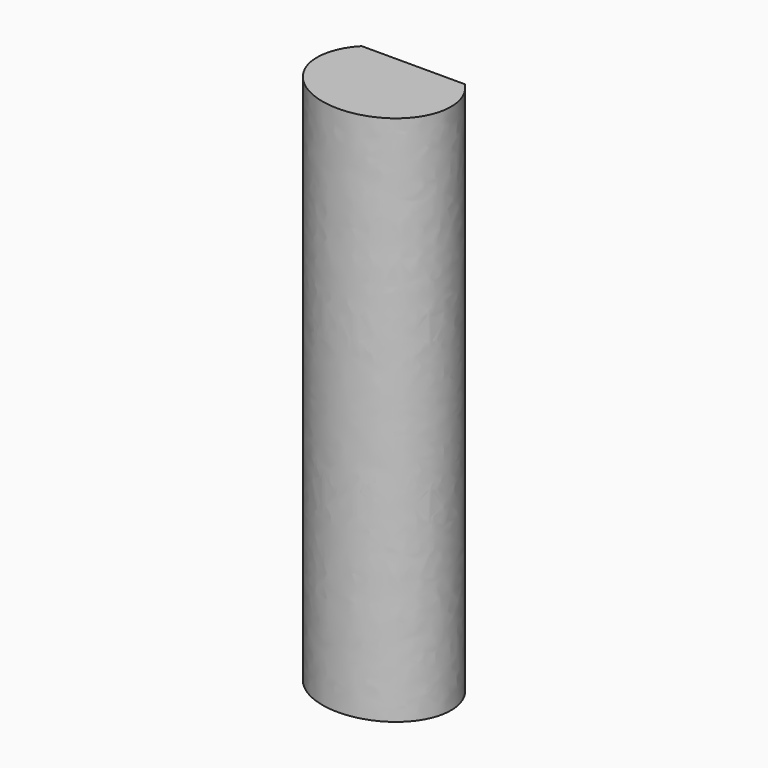
from build123d import *

# Parameters (mm, degrees)
F1_DEPTH = 254


with BuildPart() as f1:
    # F0 (on Top) → F1 (new body)
    with BuildSketch(Plane.XY):
        with BuildLine():
            Line((24.6844549069, 17.5), (-24.6844549069, 17.5))
            add(Edge.make_bspline(
                [(-24.6844549069, 17.5), (-67.8822509939, -27.5), (0, -27.5), (67.8822509939, -27.5), (24.6844549069, 17.5)],
                knots=[2.4518176528, 2.4518176528, 2.4518176528, 4.7123889804, 4.7123889804, 6.972960308, 6.972960308, 6.972960308], degree=2, weights=[1, 0.4264014327, 1, 0.4264014327, 1]))
        make_face()
    extrude(amount=F1_DEPTH)


solid = f1.part
